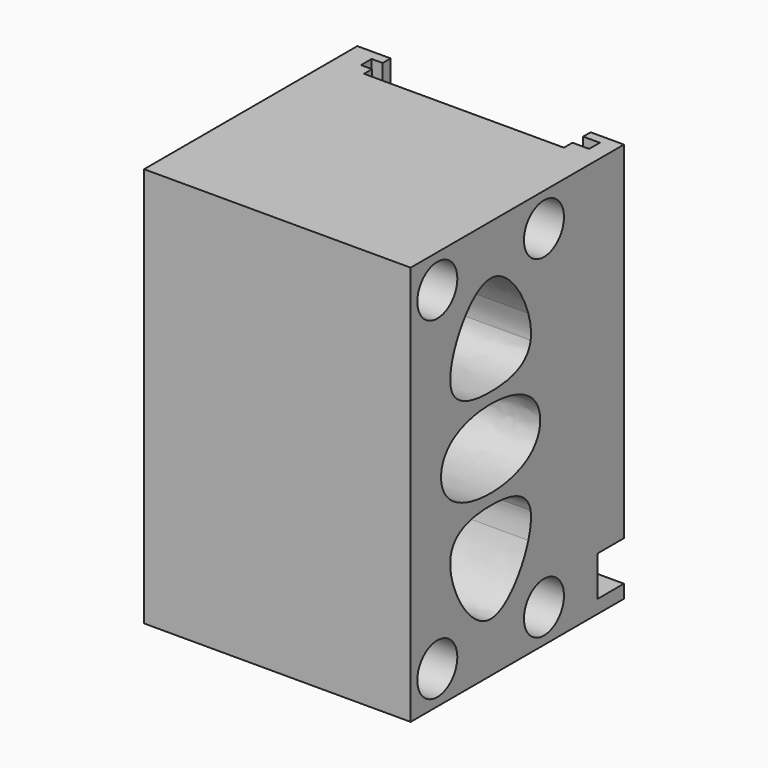
from build123d import *

# Parameters (mm, degrees)
F0_W          = 25
F0_H          = 10
F1_DEPTH      = 120
F0_W_2        = 3.3108529449
F0_H_2        = 4
F0_W_3        = 5
F2_DEPTH      = 4
F4_DEPTH      = 100
F4_DEPTH_BACK = 100
F6_DEPTH      = 120
F7_DEPTH      = 40
F9_DEPTH      = 100
F9_DEPTH_BACK = 100
F12_DEPTH     = 80


with BuildPart() as f1:
    # F0 (on Top) → F1 (new body)
    with BuildSketch(Plane.XY):
        with BuildLine():
            ThreePointArc((-40, 20), (-57.0710678119, 27.0710678119), (-50, 10))
            Line((-50, 10), (-50, 20))
            Line((-50, 20), (-40, 20))
        make_face()
        with BuildLine():
            Line((-50, 20), (-50, 10))
            ThreePointArc((-50, 10), (-42.9289321881, 12.9289321881), (-40, 20))
            Line((-40, 20), (-50, 20))
        make_face()
        with BuildLine():
            Line((-25, 0), (-25, 10))
            Line((-25, 10), (-30, 10))
            Line((-30, 10), (-30, 13))
            Line((-30, 13), (-33.3108529449, 13))
            Line((-33.3108529449, 13), (-33.3108529449, 17))
            Line((-33.3108529449, 17), (-30, 17))
            Line((-30, 17), (-30, 20))
            Line((-30, 20), (-40, 20))
            ThreePointArc((-40, 20), (-42.9289321881, 12.9289321881), (-50, 10))
            ThreePointArc((-50, 10), (-42.9289321881, 7.0710678119), (-40, 0))
            Line((-40, 0), (-25, 0))
        make_face()
        with Locations((-12.5, 5)):
            Rectangle(F0_W, F0_H)
        with Locations((12.5, 5)):
            Rectangle(F0_W, F0_H)
        with BuildLine():
            Line((25, 0), (0, 0))
            add(Edge.make_bspline(
                [(0, 0), (8.3333333333, 0), (16.6666666667, -3.90625), (25, -9.27734375)],
                knots=[0.5, 0.5, 0.5, 0.5, 0.8125, 0.8125, 0.8125, 0.8125], degree=3))
            Line((25, -9.27734375), (25, 0))
        make_face()
        with BuildLine():
            Line((0, 0), (-25, 0))
            Line((-25, 0), (-25, -9.27734375))
            add(Edge.make_bspline(
                [(-25, -9.27734375), (-16.6666666667, -3.90625), (-8.3333333333, 0), (0, 0)],
                knots=[0.1875, 0.1875, 0.1875, 0.1875, 0.5, 0.5, 0.5, 0.5], degree=3))
        make_face()
        with BuildLine():
            Line((-25, -9.27734375), (-25, 0))
            Line((-25, 0), (-40, 0))
            ThreePointArc((-40, 0), (-42.9289321881, -7.0710678119), (-50, -10))
            ThreePointArc((-50, -10), (-42.9289321881, -12.9289321881), (-40, -20))
            add(Edge.make_bspline(
                [(-40, -20), (-35, -16.25), (-30, -12.5), (-25, -9.27734375)],
                knots=[0, 0, 0, 0, 0.1875, 0.1875, 0.1875, 0.1875], degree=3))
        make_face()
        with BuildLine():
            Line((-50, -20), (-40, -20))
            ThreePointArc((-40, -20), (-42.9289321881, -12.9289321881), (-50, -10))
            Line((-50, -10), (-50, -20))
        make_face()
        with BuildLine():
            ThreePointArc((-50, -10), (-57.0710678119, -27.0710678119), (-40, -20))
            Line((-40, -20), (-50, -20))
            Line((-50, -20), (-50, -10))
        make_face()
        with BuildLine():
            Line((30, 10), (25, 10))
            Line((25, 10), (25, 0))
            Line((25, 0), (40, 0))
            ThreePointArc((40, 0), (42.9289321881, 7.0710678119), (50, 10))
            ThreePointArc((50, 10), (42.9289321881, 12.9289321881), (40, 20))
            Line((40, 20), (30, 20))
            Line((30, 20), (30, 17.1959070936))
            Line((30, 17.1959070936), (35, 17.1959070936))
            Line((35, 17.1959070936), (35, 13.1959070936))
            Line((35, 13.1959070936), (30, 13.1959070936))
            Line((30, 13.1959070936), (30, 10))
        make_face()
        with BuildLine():
            Line((50, 20), (40, 20))
            ThreePointArc((40, 20), (42.9289321881, 12.9289321881), (50, 10))
            Line((50, 10), (50, 20))
        make_face()
        with BuildLine():
            ThreePointArc((60, 20), (50, 30), (40, 20))
            Line((40, 20), (50, 20))
            Line((50, 20), (50, 10))
            ThreePointArc((50, 10), (57.0710678119, 12.9289321881), (60, 20))
        make_face()
        with BuildLine():
            Line((40, 0), (25, 0))
            Line((25, 0), (25, -9.27734375))
            add(Edge.make_bspline(
                [(25, -9.27734375), (30, -12.5), (35, -16.25), (40, -20)],
                knots=[0.8125, 0.8125, 0.8125, 0.8125, 1, 1, 1, 1], degree=3))
            ThreePointArc((40, -20), (42.9289321881, -12.9289321881), (50, -10))
            ThreePointArc((50, -10), (42.9289321881, -7.0710678119), (40, 0))
        make_face()
        with BuildLine():
            ThreePointArc((50, -10), (42.9289321881, -12.9289321881), (40, -20))
            Line((40, -20), (50, -20))
            Line((50, -20), (50, -10))
        make_face()
        with BuildLine():
            Line((50, -20), (40, -20))
            ThreePointArc((40, -20), (50, -30), (60, -20))
            ThreePointArc((60, -20), (57.0710678119, -12.9289321881), (50, -10))
            Line((50, -10), (50, -20))
        make_face()
        with BuildLine():
            Line((25, -10), (0, -10))
            Line((0, -10), (0, -20))
            Line((0, -20), (40, -20))
            add(Edge.make_bspline(
                [(25, -9.27734375), (30, -12.5), (35, -16.25), (40, -20)],
                knots=[0.8125, 0.8125, 0.8125, 0.8125, 1, 1, 1, 1], degree=3))
            Line((25, -9.27734375), (25, -10))
        make_face()
        with BuildLine():
            Line((-25, -10), (-25, -9.27734375))
            add(Edge.make_bspline(
                [(-40, -20), (-35, -16.25), (-30, -12.5), (-25, -9.27734375)],
                knots=[0, 0, 0, 0, 0.1875, 0.1875, 0.1875, 0.1875], degree=3))
            Line((-40, -20), (0, -20))
            Line((0, -20), (0, -10))
            Line((0, -10), (-25, -10))
        make_face()
        with BuildLine():
            Line((0, -10), (0, 0))
            add(Edge.make_bspline(
                [(-25, -9.27734375), (-16.6666666667, -3.90625), (-8.3333333333, 0), (0, 0)],
                knots=[0.1875, 0.1875, 0.1875, 0.1875, 0.5, 0.5, 0.5, 0.5], degree=3))
            Line((-25, -9.27734375), (-25, -10))
            Line((-25, -10), (0, -10))
        make_face()
        with BuildLine():
            add(Edge.make_bspline(
                [(0, 0), (8.3333333333, 0), (16.6666666667, -3.90625), (25, -9.27734375)],
                knots=[0.5, 0.5, 0.5, 0.5, 0.8125, 0.8125, 0.8125, 0.8125], degree=3))
            Line((0, 0), (0, -10))
            Line((0, -10), (25, -10))
            Line((25, -10), (25, -9.27734375))
        make_face()
    extrude(amount=F1_DEPTH)

    # F0 (on Top) → F2 (join)
    with BuildSketch(Plane.XY):
        Polygon((-30, 10), (-25, 10), (0, 10), (0, 20), (-30, 20), (-30, 17), (-26.6891470551, 17), (-26.6891470551, 13), (-30, 13), align=None)
        with Locations((-28.3445735276, 15)):
            Rectangle(F0_W_2, F0_H_2)
        with Locations((-31.6554264724, 15)):
            Rectangle(F0_W_2, F0_H_2)
        with Locations((32.5, 15.1959070936)):
            Rectangle(F0_W_3, F0_H_2)
        with Locations((27.5, 15.1959070936)):
            Rectangle(F0_W_3, F0_H_2)
        Polygon((0, 20), (0, 10), (25, 10), (30, 10), (30, 13.1959070936), (25, 13.1959070936), (25, 17.1959070936), (30, 17.1959070936), (30, 20), align=None)
    extrude(amount=F2_DEPTH)

    # F3 (on Right) → F4 (cut, two sides)
    with BuildSketch(Plane.YZ) as f4_sk:
        Polygon((30, 16), (20, 16), (10, 16), (10, 4), (15, 4), (20, 4), (30, 4), align=None)
    extrude(amount=F4_DEPTH, mode=Mode.SUBTRACT)
    extrude(f4_sk.sketch, amount=-F4_DEPTH_BACK, mode=Mode.SUBTRACT)

    # F5 (on Top) → F6 (cut)
    with BuildSketch(Plane.XY):
        Polygon((-40, -41.7266488075), (-40, 0), (-40, 41.7266488075), (-60, 41.7266488075), (-60, -41.7266488075), align=None)
        Polygon((40, 36.4203676581), (40, 0), (40, -36.4203676581), (60, -36.4203676581), (60, 36.4203676581), align=None)
    extrude(amount=F6_DEPTH, mode=Mode.SUBTRACT)

    # F7 (add): a face of the model
    f7_faces = [f1.faces().sort_by_distance(p)[0] for p in [
        (0, -20, 60),
    ]]
    extrude(f7_faces, amount=F7_DEPTH)

    # F8 (on Right) → F9 (cut, two sides)
    with BuildSketch(Plane.YZ) as f9_sk:
        with BuildLine():
            ThreePointArc((-42.5, 110), (-55.3033008589, 115.3033008589), (-50, 102.5))
            ThreePointArc((-50, 102.5), (-44.6966991411, 104.6966991411), (-42.5, 110))
        make_face()
        with BuildLine():
            ThreePointArc((-50, 17.5), (-55.3033008589, 4.6966991411), (-42.5, 10))
            ThreePointArc((-42.5, 10), (-44.6966991411, 15.3033008589), (-50, 17.5))
        make_face()
        with BuildLine():
            ThreePointArc((-2.5, 110), (-15.3033008589, 115.3033008589), (-10, 102.5))
            ThreePointArc((-10, 102.5), (-4.6966991411, 104.6966991411), (-2.5, 110))
        make_face()
        with BuildLine():
            ThreePointArc((-10, 17.5), (-15.3033008589, 15.3033008589), (-17.5, 10))
            ThreePointArc((-17.5, 10), (-10, 2.5), (-2.5, 10))
            ThreePointArc((-2.5, 10), (-4.6966991411, 15.3033008589), (-10, 17.5))
        make_face()
    extrude(amount=F9_DEPTH, mode=Mode.SUBTRACT)
    extrude(f9_sk.sketch, amount=-F9_DEPTH_BACK, mode=Mode.SUBTRACT)

    # F11 (on offset) → F12 (cut)
    with BuildSketch(Plane.YZ.offset(40)):
        with BuildLine():
            Line((-44.1418695118, 90), (-30, 90))
            Line((-30, 90), (-30, 105))
            add(Edge.make_bspline(
                [(-44.1418695118, 90), (-41.838466476, 97.1981606606), (-35.919233238, 105), (-30, 105)],
                knots=[0.0771731373, 0.0771731373, 0.0771731373, 0.0771731373, 0.2797185487, 0.2797185487, 0.2797185487, 0.2797185487], degree=3))
        make_face()
        with BuildLine():
            Line((-45, 82.5), (-30, 90))
            Line((-30, 90), (-44.1418695118, 90))
            add(Edge.make_bspline(
                [(-45, 82.5), (-45.3722155878, 84.6024026705), (-45.0195040015, 87.2573822471), (-44.1418695118, 90)],
                knots=[0, 0, 0, 0, 0.0771731373, 0.0771731373, 0.0771731373, 0.0771731373], degree=3))
        make_face()
        with BuildLine():
            add(Edge.make_bspline(
                [(-30, 75), (-36.9687776553, 75), (-43.9375553106, 76.4989440916), (-45, 82.5)],
                knots=[0.7797185487, 0.7797185487, 0.7797185487, 0.7797185487, 1, 1, 1, 1], degree=3))
            Line((-30, 75), (-30, 90))
            Line((-30, 90), (-45, 82.5))
        make_face()
        with BuildLine():
            Line((-30, 90), (-30, 75))
            add(Edge.make_bspline(
                [(-15, 82.5), (-16.0624446894, 76.4989440916), (-23.0312223447, 75), (-30, 75)],
                knots=[0.5594370973, 0.5594370973, 0.5594370973, 0.5594370973, 0.7797185487, 0.7797185487, 0.7797185487, 0.7797185487], degree=3))
            Line((-15, 82.5), (-30, 90))
        make_face()
        with BuildLine():
            Line((-30, 90), (-15, 82.5))
            add(Edge.make_bspline(
                [(-15.8581304882, 90), (-14.9804959985, 87.2573822471), (-14.6277844122, 84.6024026705), (-15, 82.5)],
                knots=[0.48226396, 0.48226396, 0.48226396, 0.48226396, 0.5594370973, 0.5594370973, 0.5594370973, 0.5594370973], degree=3))
            Line((-15.8581304882, 90), (-30, 90))
        make_face()
        with BuildLine():
            Line((-30, 90), (-15.8581304882, 90))
            add(Edge.make_bspline(
                [(-30, 105), (-24.080766762, 105), (-18.161533524, 97.1981606606), (-15.8581304882, 90)],
                knots=[0.2797185487, 0.2797185487, 0.2797185487, 0.2797185487, 0.48226396, 0.48226396, 0.48226396, 0.48226396], degree=3))
            Line((-30, 105), (-30, 90))
        make_face()
        with BuildLine():
            Line((-30, 71.7917303212), (-30, 60))
            Line((-30, 60), (-15, 67.5))
            add(Edge.make_bspline(
                [(-15, 67.5), (-18.3981137949, 70.3611535475), (-24.1990568975, 71.7917303212), (-30, 71.7917303212)],
                knots=[0.2071067812, 0.2071067812, 0.2071067812, 0.2071067812, 0.3535533906, 0.3535533906, 0.3535533906, 0.3535533906], degree=3))
        make_face()
        with BuildLine():
            Line((-45, 67.5), (-30, 60))
            Line((-30, 60), (-30, 71.7917303212))
            add(Edge.make_bspline(
                [(-30, 71.7917303212), (-35.8009431025, 71.7917303212), (-41.6018862051, 70.3611535475), (-45, 67.5)],
                knots=[0.3535533906, 0.3535533906, 0.3535533906, 0.3535533906, 0.5, 0.5, 0.5, 0.5], degree=3))
        make_face()
        with BuildLine():
            Line((-48.6042439614, 60), (-30, 60))
            Line((-30, 60), (-45, 67.5))
            add(Edge.make_bspline(
                [(-45, 67.5), (-47.4028293076, 65.4768589246), (-48.6042439614, 62.7384294623), (-48.6042439614, 60)],
                knots=[0.5, 0.5, 0.5, 0.5, 0.6035533906, 0.6035533906, 0.6035533906, 0.6035533906], degree=3))
        make_face()
        with BuildLine():
            Line((-45, 52.5), (-30, 60))
            Line((-30, 60), (-48.6042439614, 60))
            add(Edge.make_bspline(
                [(-48.6042439614, 60), (-48.6042439614, 57.2615705377), (-47.4028293076, 54.5231410754), (-45, 52.5)],
                knots=[0.6035533906, 0.6035533906, 0.6035533906, 0.6035533906, 0.7071067812, 0.7071067812, 0.7071067812, 0.7071067812], degree=3))
        make_face()
        with BuildLine():
            add(Edge.make_bspline(
                [(-45, 52.5), (-41.6018862051, 49.6388464525), (-35.8009431025, 48.2082696788), (-30, 48.2082696788)],
                knots=[0.7071067812, 0.7071067812, 0.7071067812, 0.7071067812, 0.8535533906, 0.8535533906, 0.8535533906, 0.8535533906], degree=3))
            Line((-30, 48.2082696788), (-30, 60))
            Line((-30, 60), (-45, 52.5))
        make_face()
        with BuildLine():
            add(Edge.make_bspline(
                [(-30, 48.2082696788), (-24.1990568975, 48.2082696788), (-18.3981137949, 49.6388464525), (-15, 52.5)],
                knots=[0.8535533906, 0.8535533906, 0.8535533906, 0.8535533906, 1, 1, 1, 1], degree=3))
            Line((-15, 52.5), (-30, 60))
            Line((-30, 60), (-30, 48.2082696788))
        make_face()
        with BuildLine():
            Line((-30, 60), (-15, 52.5))
            add(Edge.make_bspline(
                [(-15, 52.5), (-12.5971706924, 54.5231410754), (-11.3957560386, 57.2615705377), (-11.3957560386, 60)],
                knots=[0, 0, 0, 0, 0.1035533906, 0.1035533906, 0.1035533906, 0.1035533906], degree=3))
            Line((-11.3957560386, 60), (-30, 60))
        make_face()
        with BuildLine():
            Line((-30, 60), (-11.3957560386, 60))
            add(Edge.make_bspline(
                [(-11.3957560386, 60), (-11.3957560386, 62.7384294623), (-12.5971706924, 65.4768589246), (-15, 67.5)],
                knots=[0.1035533906, 0.1035533906, 0.1035533906, 0.1035533906, 0.2071067812, 0.2071067812, 0.2071067812, 0.2071067812], degree=3))
            Line((-15, 67.5), (-30, 60))
        make_face()
        with BuildLine():
            add(Edge.make_bspline(
                [(-15, 37.5), (-16.0624446894, 43.5010559084), (-23.0312223447, 45), (-30, 45)],
                knots=[0.5594370973, 0.5594370973, 0.5594370973, 0.5594370973, 0.7797185487, 0.7797185487, 0.7797185487, 0.7797185487], degree=3))
            Line((-30, 45), (-30, 30))
            Line((-30, 30), (-15, 37.5))
        make_face()
        with BuildLine():
            Line((-30, 30), (-30, 45))
            add(Edge.make_bspline(
                [(-30, 45), (-36.9687776553, 45), (-43.9375553106, 43.5010559084), (-45, 37.5)],
                knots=[0.7797185487, 0.7797185487, 0.7797185487, 0.7797185487, 1, 1, 1, 1], degree=3))
            Line((-45, 37.5), (-30, 30))
        make_face()
        with BuildLine():
            Line((-44.1418695118, 30), (-30, 30))
            Line((-30, 30), (-45, 37.5))
            add(Edge.make_bspline(
                [(-45, 37.5), (-45.3722155878, 35.3975973295), (-45.0195040015, 32.7426177529), (-44.1418695118, 30)],
                knots=[0, 0, 0, 0, 0.0771731373, 0.0771731373, 0.0771731373, 0.0771731373], degree=3))
        make_face()
        with BuildLine():
            add(Edge.make_bspline(
                [(-44.1418695118, 30), (-41.838466476, 22.8018393394), (-35.919233238, 15), (-30, 15)],
                knots=[0.0771731373, 0.0771731373, 0.0771731373, 0.0771731373, 0.2797185487, 0.2797185487, 0.2797185487, 0.2797185487], degree=3))
            Line((-30, 15), (-30, 30))
            Line((-30, 30), (-44.1418695118, 30))
        make_face()
        with BuildLine():
            add(Edge.make_bspline(
                [(-30, 15), (-24.080766762, 15), (-18.161533524, 22.8018393394), (-15.8581304882, 30)],
                knots=[0.2797185487, 0.2797185487, 0.2797185487, 0.2797185487, 0.48226396, 0.48226396, 0.48226396, 0.48226396], degree=3))
            Line((-15.8581304882, 30), (-30, 30))
            Line((-30, 30), (-30, 15))
        make_face()
        with BuildLine():
            Line((-30, 30), (-15.8581304882, 30))
            add(Edge.make_bspline(
                [(-15.8581304882, 30), (-14.9804959985, 32.7426177529), (-14.6277844122, 35.3975973295), (-15, 37.5)],
                knots=[0.48226396, 0.48226396, 0.48226396, 0.48226396, 0.5594370973, 0.5594370973, 0.5594370973, 0.5594370973], degree=3))
            Line((-15, 37.5), (-30, 30))
        make_face()
    extrude(amount=-F12_DEPTH, mode=Mode.SUBTRACT)


solid = f1.part
